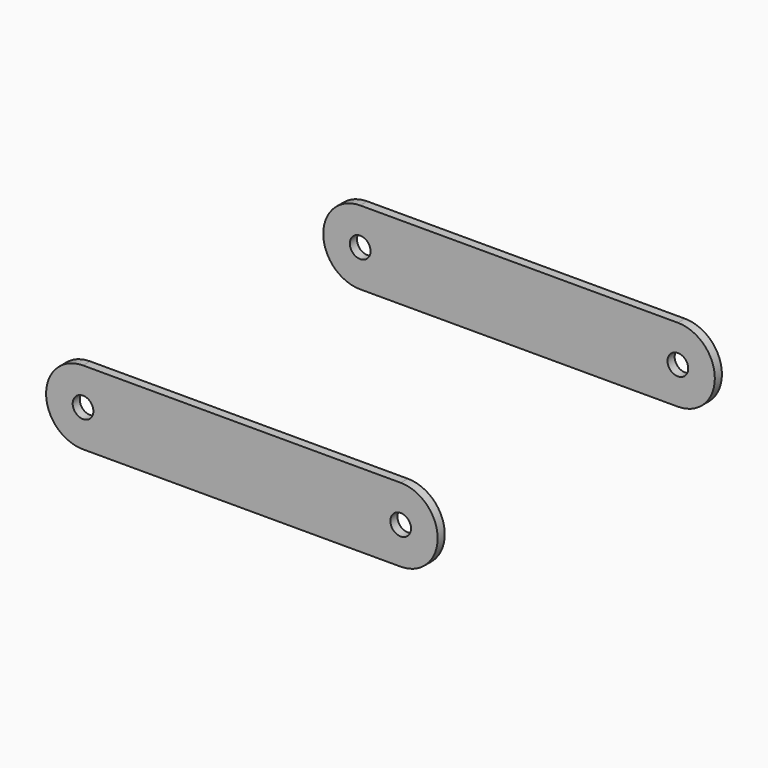
from build123d import *

# Parameters (mm, degrees)
SKETCH010_R  = 7
PAD004_DEPTH = 6


with BuildPart() as body003:
    # Sketch010 → Pad004 (new body)
    with BuildSketch(Plane.XZ):
        with BuildLine():
            Line((0, 25), (215, 25))
            ThreePointArc((215, -25), (240, 0), (215, 25))
            Line((215, -25), (0, -25))
            ThreePointArc((0, 25), (-25, 0), (0, -25))
        make_face()
        Circle(SKETCH010_R, mode=Mode.SUBTRACT)
        with Locations((215, 0)):
            Circle(SKETCH010_R, mode=Mode.SUBTRACT)
    extrude(amount=PAD004_DEPTH)


with BuildPart() as body003_1:
    # Body003 placement: moved
    add(body003.part.moved(Location((0, -114.25, 0))))


with BuildPart() as linkplate:
    # Mirror001: instance of Body003
    add(body003_1.part.mirror(Plane(origin=(-500, 0, 0), x_dir=(-1, 0, 0), z_dir=(0, -1, 0))))

    # Fusion001: union Body003
    add(body003_1.part)


solid = linkplate.part
